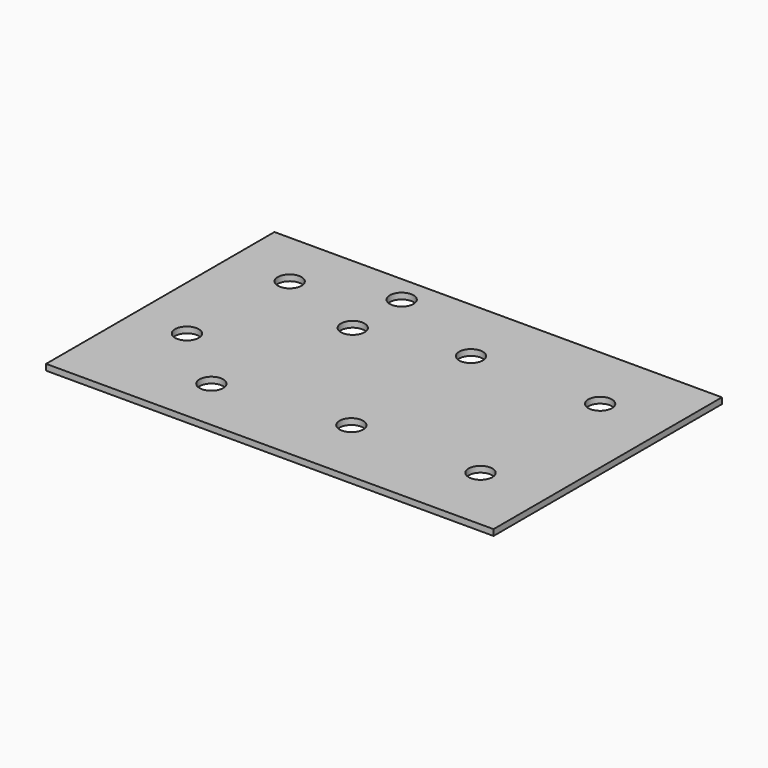
from build123d import *

# Parameters (mm, degrees)
F0_W     = 209.042
F0_H     = 133.35
F1_DEPTH = 2.8194
F2_R     = 5.5372
F3_DEPTH = 2.8204


with BuildPart() as f1:
    # F0 (on Top) → F1 (new body)
    with BuildSketch(Plane.XY):
        Rectangle(F0_W, F0_H)
    extrude(amount=F1_DEPTH)

    # F2 (on face) → F3 (cut, through all)
    with BuildSketch(Plane.XY.offset(2.8194)):
        with Locations((-75.819, 39.6875)):
            Circle(F2_R)
        with Locations((-79.375, -15.875)):
            Circle(F2_R)
        with Locations((-34.925, 53.975)):
            Circle(F2_R)
        with Locations((-34.925, 25.4)):
            Circle(F2_R)
        with Locations((12.7, 34.925)):
            Circle(F2_R)
        with Locations((-47.625, -41.275)):
            Circle(F2_R)
        with Locations((73.025, 34.925)):
            Circle(F2_R)
        with Locations((12.7, -34.925)):
            Circle(F2_R)
        with Locations((73.025, -34.925)):
            Circle(F2_R)
    extrude(amount=-F3_DEPTH, mode=Mode.SUBTRACT)


solid = f1.part
